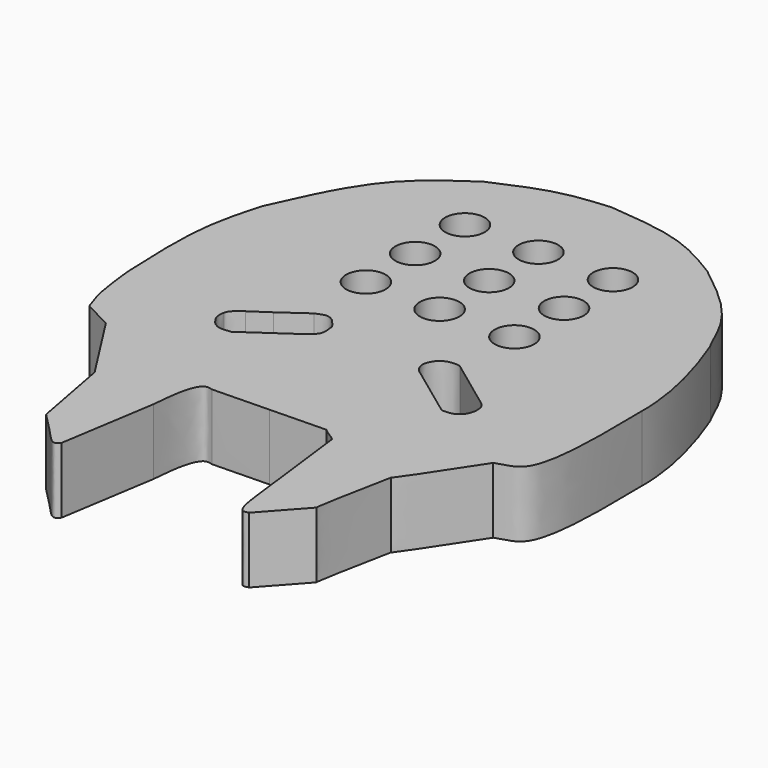
from build123d import *

# Parameters (mm, degrees)
F2_DEPTH = 5
F1_R     = 1.5
F3_DEPTH = 5


with BuildPart() as f2:
    # F0 (on Top) → F2 (new body)
    with BuildSketch(Plane.XY):
        with BuildLine():
            add(Edge.make_bspline(
                [(28.7786647677, 16.4962057024), (27.3534332712, 16.4962057024), (25.9282017748, 16.3979139179), (24.5029702783, 16.3979139179)],
                knots=[0, 0, 0, 0, 4.2768241304, 4.2768241304, 4.2768241304, 4.2768241304], degree=3))
            add(Edge.make_bspline(
                [(28.7786647677, 16.4962057024), (30.1958868901, 16.5288864324), (31.6131090124, 16.5615671625), (33.0303311348, 16.5942478925)],
                knots=[0, 0, 0, 0, 4.252796629, 4.252796629, 4.252796629, 4.252796629], degree=3))
            add(Edge.make_bspline(
                [(34.0554304421, 15.8441737294), (33.7053959568, 16.1608718336), (33.3803656201, 16.2775497884), (33.0303311348, 16.5942478925)],
                knots=[0, 0, 0, 0, 1.2702125176, 1.2702125176, 1.2702125176, 1.2702125176], degree=3))
            add(Edge.make_bspline(
                [(35.030528903, 7.8683812171), (34.7054960827, 10.5269787212), (34.3804632624, 13.1855762253), (34.0554304421, 15.8441737294)],
                knots=[0, 0, 0, 0, 8.0351778579, 8.0351778579, 8.0351778579, 8.0351778579], degree=3))
            add(Edge.make_bspline(
                [(36.1056365073, 5.4181381129), (35.9264295305, 5.3620166626), (35.3451776861, 5.1799886127), (35.15918074, 6.7691662645), (35.030528903, 7.8683812171)],
                knots=[0, 0, 0, 0, 0.3083121001, 1, 1, 1, 1], degree=3))
            add(Edge.make_bspline(
                [(38.8059057295, 8.4184361622), (37.4535769802, 6.9203687349), (36.1012482309, 5.4223013077), (36.1056365073, 5.4181381129)],
                knots=[0, 0, 0, 0, 0.9144176852, 0.9144176852, 0.9144176852, 0.9144176852], degree=3))
            add(Edge.make_bspline(
                [(39.8560129106, 14.1940098256), (39.2937416175, 11.3257224468), (38.7314703243, 8.4574350679), (38.8059057295, 8.4184361622)],
                knots=[0, 0, 0, 0, 0.9279806118, 0.9279806118, 0.9279806118, 0.9279806118], degree=3))
            add(Edge.make_bspline(
                [(43.4063635767, 19.4445308298), (41.6661026772, 16.796114764), (39.8167199055, 13.9816315759), (39.8538236249, 14.1821767609), (39.8560129106, 14.1940098256)],
                knots=[0, 0, 0, 0, 0.9409955181, 1, 1, 1, 1], degree=3))
            add(Edge.make_bspline(
                [(46.1316332221, 30.1705934107), (46.201065216, 26.0141822855), (46.2669693032, 19.7845163706), (44.1314354539, 19.7195578367), (43.4063635767, 19.4445308298)],
                knots=[0, 0, 0, 0, 0.6856364339, 1, 1, 1, 1], degree=3))
            add(Edge.make_bspline(
                [(44.0814308822, 39.2214953899), (44.942471716, 37.026856873), (45.9936424251, 33.4912353698), (46.1571893395, 30.7073156698), (46.1316332221, 30.1705934107)],
                knots=[0, 0, 0, 0, 0.5973818248, 1, 1, 1, 1], degree=3))
            add(Edge.make_bspline(
                [(37.9308201373, 46.5972237289), (39.7218772443, 45.1967775697), (42.7448053753, 42.833118659), (43.922661607, 39.3325250293), (44.0814308822, 39.2214953899)],
                knots=[0, 0, 0, 0, 0.5634229372, 0.9509395541, 0.9509395541, 0.9509395541, 0.9509395541], degree=3))
            add(Edge.make_bspline(
                [(28.3798743039, 49.4475066662), (30.3463351664, 49.2764352977), (34.0485912428, 48.954359214), (36.6916346322, 47.3496080436), (37.9308201373, 46.5972237289)],
                knots=[0, 0, 0, 0, 0.5311520386, 1, 1, 1, 1], degree=3))
            add(Edge.make_bspline(
                [(20.4540863633, 47.2972951829), (21.8867810289, 47.9304252414), (24.6135730188, 49.1354370372), (27.1677144968, 49.3470690664), (28.3798743039, 49.4475066662)],
                knots=[0, 0, 0, 0, 0.5254139923, 1, 1, 1, 1], degree=3))
            add(Edge.make_bspline(
                [(12.128260918, 36.621235311), (13.2656434176, 39.1604577253), (15.3840794859, 43.8898960188), (18.8493227012, 46.2187817818), (20.4540863633, 47.2972951829)],
                knots=[0, 0, 0, 0, 0.5368972501, 1, 1, 1, 1], degree=3))
            add(Edge.make_bspline(
                [(11.1531633884, 25.0700879842), (11.0426565419, 27.5454372876), (10.8424476096, 32.0301100206), (11.730414239, 35.2006838689), (12.128260918, 36.621235311)],
                knots=[0, 0, 0, 0, 0.5519576234, 1, 1, 1, 1], degree=3))
            add(Edge.make_bspline(
                [(12.128260918, 20.2196072787), (11.9396298399, 20.7302181813), (11.4960442281, 21.93097286), (11.2783087006, 23.9243676733), (11.1531633884, 25.0700879842)],
                knots=[0, 0, 0, 0, 0.4252416515, 1, 1, 1, 1], degree=3))
            add(Edge.make_bspline(
                [(14.2806209624, 19.1009379923), (13.5631676142, 19.4738277545), (12.8457142661, 19.8467175166), (12.128260918, 20.2196072787)],
                knots=[0, 0, 0, 0, 2.4257111809, 2.4257111809, 2.4257111809, 2.4257111809], degree=3))
            add(Edge.make_bspline(
                [(17.6962614059, 13.7686077505), (16.5577145914, 15.5460511645), (15.4191677769, 17.3234945784), (14.2806209624, 19.1009379923)],
                knots=[0, 0, 0, 0, 6.3324833555, 6.3324833555, 6.3324833555, 6.3324833555], degree=3))
            add(Edge.make_bspline(
                [(18.826616928, 7.7482336201), (18.449831754, 9.7550249969), (18.07304658, 11.7618163737), (17.6962614059, 13.7686077505)],
                knots=[0, 0, 0, 0, 6.1255700369, 6.1255700369, 6.1255700369, 6.1255700369], degree=3))
            add(Edge.make_bspline(
                [(21.8245182186, 5.4629491642), (21.7108202341, 5.3376502894), (21.4165861788, 5.0133947963), (20.4957638936, 6.0671498654), (19.4532904711, 7.1170784645), (18.826616928, 7.7482336201)],
                knots=[0, 0, 0, 0, 0.2007630192, 0.5195458611, 1, 1, 1, 1], degree=3))
            add(Edge.make_bspline(
                [(22.9794476181, 12.7365430817), (22.5944711516, 10.3120117759), (22.2094946851, 7.88748047), (21.8245182186, 5.4629491642)],
                knots=[0, 0, 0, 0, 7.3647152283, 7.3647152283, 7.3647152283, 7.3647152283], degree=3))
            add(Edge.make_bspline(
                [(24.5029702783, 16.3979139179), (24.2545480757, 16.457738394), (23.7733196994, 16.5750358032), (23.1531511766, 15.0702995523), (23.0738569515, 13.5969865217), (22.9794476181, 12.7365430817)],
                knots=[0, 0, 0, 0, 0.2229298737, 0.552268584, 1, 1, 1, 1], degree=3))
        make_face()
        with BuildLine():
            add(Edge.make_bspline(
                [(19.7707619518, 25.4675038159), (20.2849085132, 25.757982706), (20.6410096337, 26.1077272395), (21.1551561952, 26.3982061297)],
                knots=[0, 0, 0, 0, 1.6681589307, 1.6681589307, 1.6681589307, 1.6681589307], degree=3))
            add(Edge.make_bspline(
                [(21.1551561952, 26.3982061297), (21.8123979867, 26.8640990059), (22.4696397781, 27.329991882), (23.1268815696, 27.7958847582)],
                knots=[0, 0, 0, 0, 2.4168588087, 2.4168588087, 2.4168588087, 2.4168588087], degree=3))
            add(Edge.make_bspline(
                [(23.1268815696, 27.7958847582), (23.4302642999, 27.9257749489), (23.9764650926, 28.1596251916), (24.333578659, 27.9078247286), (24.4923364371, 27.7958847582)],
                knots=[0, 0, 0, 0, 0.5554417612, 1, 1, 1, 1], degree=3))
            add(Edge.make_bspline(
                [(24.4923364371, 27.7958847582), (24.7112412104, 27.5568410681), (25.0480976986, 27.1889942788), (25.0461675905, 26.9821026564), (25.045491755, 26.9096586853)],
                knots=[0, 0, 0, 0, 0.6498457975, 1, 1, 1, 1], degree=3))
            add(Edge.make_bspline(
                [(25.045491755, 26.9096586853), (25.0901061339, 26.6330206678), (25.1757880791, 26.0779728274), (24.7261609493, 25.6500168981), (24.4923364371, 25.4675038159)],
                knots=[0, 0, 0, 0, 0.4901555982, 1, 1, 1, 1], degree=3))
            add(Edge.make_bspline(
                [(24.4923364371, 25.4675038159), (23.2477368166, 24.5850893358), (22.0031371961, 23.7619404991), (20.7585375756, 22.8795260191)],
                knots=[0, 0, 0, 0, 4.5430037437, 4.5430037437, 4.5430037437, 4.5430037437], degree=3))
            add(Edge.make_bspline(
                [(20.7585375756, 22.8795260191), (20.405901409, 22.8403885896), (19.7724884957, 22.7700890696), (19.4290917953, 23.0786102264), (19.2768722773, 23.2153702527)],
                knots=[0, 0, 0, 0, 0.5567239935, 1, 1, 1, 1], degree=3))
            add(Edge.make_bspline(
                [(19.2768722773, 23.2153702527), (19.1175545535, 23.4298293637), (18.8164909813, 23.845577707), (18.8726020293, 24.2868788492), (18.9015176147, 24.5192367584)],
                knots=[0, 0, 0, 0, 0.5178862764, 1, 1, 1, 1], degree=3))
            add(Edge.make_bspline(
                [(18.9015176147, 24.5192367584), (18.9318202689, 24.6817342211), (19.1368350812, 25.0158121965), (19.5525943822, 25.3099724303), (19.7707619518, 25.4675038159)],
                knots=[0, 0, 0, 0, 0.4488819495, 1, 1, 1, 1], degree=3))
        make_face(mode=Mode.SUBTRACT)
        with BuildLine():
            add(Edge.make_bspline(
                [(32.6592810452, 25.869358331), (32.4509113562, 26.0499476175), (32.2939669471, 26.3610240009), (32.1994835702, 26.8554791141), (32.5083631343, 27.4777518027), (32.8954510162, 27.8253639918), (33.5004289129, 27.9999233062), (33.9412095353, 27.9802175247), (34.1260544956, 27.8949011117)],
                knots=[0, 0, 0, 0, 0.1726951713, 0.3215696796, 0.4991474643, 0.6559863652, 0.8270618313, 1, 1, 1, 1], degree=3))
            add(Edge.make_bspline(
                [(34.1260544956, 27.8949011117), (35.4740905265, 26.8984256933), (36.8221265574, 25.9019502749), (38.1701625884, 24.9054748565)],
                knots=[0, 0, 0, 0, 5.0290634915, 5.0290634915, 5.0290634915, 5.0290634915], degree=3))
            add(Edge.make_bspline(
                [(38.1701625884, 24.9054748565), (38.2405595194, 24.8143368767), (38.4020654987, 24.6052463887), (38.470948132, 23.977433478), (38.2329838854, 23.2694437637), (37.6073773996, 22.8025261291), (37.0741936096, 22.8121444764), (36.8011705577, 22.8170696646)],
                knots=[0, 0, 0, 0, 0.1512568335, 0.3470163066, 0.5621197723, 0.7757782618, 1, 1, 1, 1], degree=3))
            add(Edge.make_bspline(
                [(36.8011705577, 22.8170696646), (35.4205407202, 23.8344992201), (34.0399108827, 24.8519287755), (32.6592810452, 25.869358331)],
                knots=[0, 0, 0, 0, 5.1450670391, 5.1450670391, 5.1450670391, 5.1450670391], degree=3))
        make_face(mode=Mode.SUBTRACT)
    extrude(amount=F2_DEPTH)

    # F1 (on face) → F3 (cut)
    with BuildSketch(Plane.XY):
        with Locations((23.01017569, 32.86326798)):
            Circle(F1_R)
        with Locations((-15598.762805792, 35.025678575)):
            Circle(F1_R)
        with Locations((34.2861823738, 32.8629463911)):
            Circle(F1_R)
        with Locations((23.0116825551, 37.5390388072)):
            Circle(F1_R)
        with Locations((28.6087393761, 37.5647246838)):
            Circle(F1_R)
        with Locations((34.2885330319, 37.5625342131)):
            Circle(F1_R)
        with Locations((23.0116825551, 42.2612205148)):
            Circle(F1_R)
        with Locations((28.6087393761, 42.23600775)):
            Circle(F1_R)
        with Locations((34.265037626, 42.2377288342)):
            Circle(F1_R)
        with Locations((28.6087393761, 32.8614637256)):
            Circle(F1_R)
    extrude(amount=F3_DEPTH, mode=Mode.SUBTRACT)


solid = f2.part
